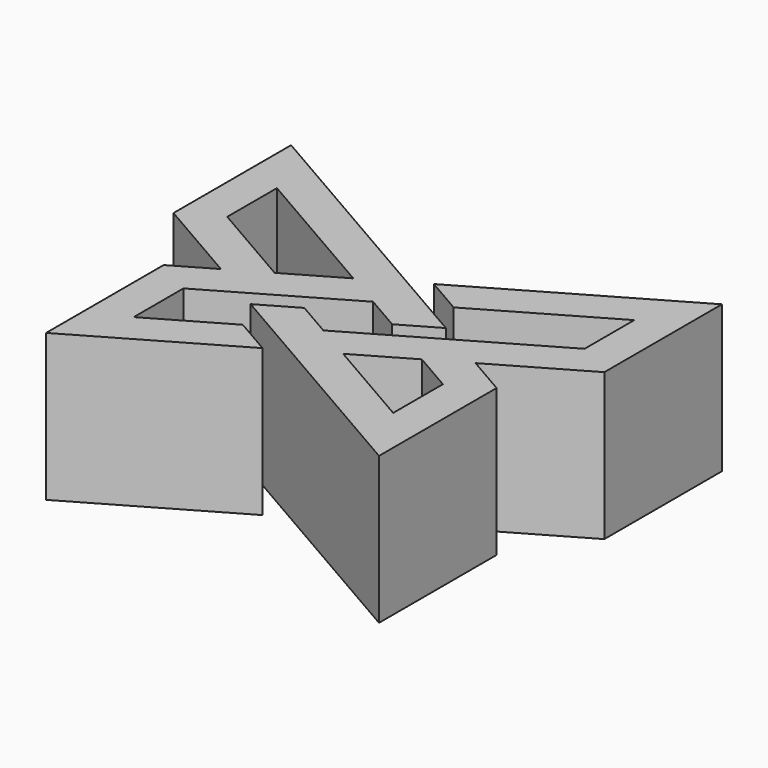
from build123d import *

# Parameters (mm, degrees)
F2_DEPTH = 25.4


with BuildPart() as f2:
    # F1 (on Top) → F2 (new body)
    with BuildSketch(Plane.XY):
        Polygon((12.472045, 5.499261), (-37.224668, 34.191672), (-37.224668, 8.791672), (-21.997045, 0), (-28.766468, -3.908328), (-28.766468, -29.308328), (-3.175, -14.533087), (-9.525, -10.866913), (-22.416468, -18.309805), (-22.416468, -7.574502), (-1e-06, 5.367651), (6.122044, 1.833086), align=None)
        Polygon((-30.874667, 12.457847), (-30.874667, 23.193147), (-6.350001, 9.033825), (-15.647044, 3.666175), align=None, mode=Mode.SUBTRACT)
        Polygon((-12.472045, -5.499261), (28.766468, -29.308328), (28.766468, -3.908328), (21.997045, 0), (37.224668, 8.791672), (37.224668, 34.191672), (3.175, 14.533087), (9.525, 10.866913), (30.874668, 23.193149), (30.874668, 12.457846), (1e-06, -5.367651), (-6.122044, -1.833086), align=None)
        Polygon((15.647044, -3.666175), (22.416467, -7.574503), (22.416467, -18.309803), (6.350001, -9.033825), align=None, mode=Mode.SUBTRACT)
    extrude(amount=F2_DEPTH)


solid = f2.part
